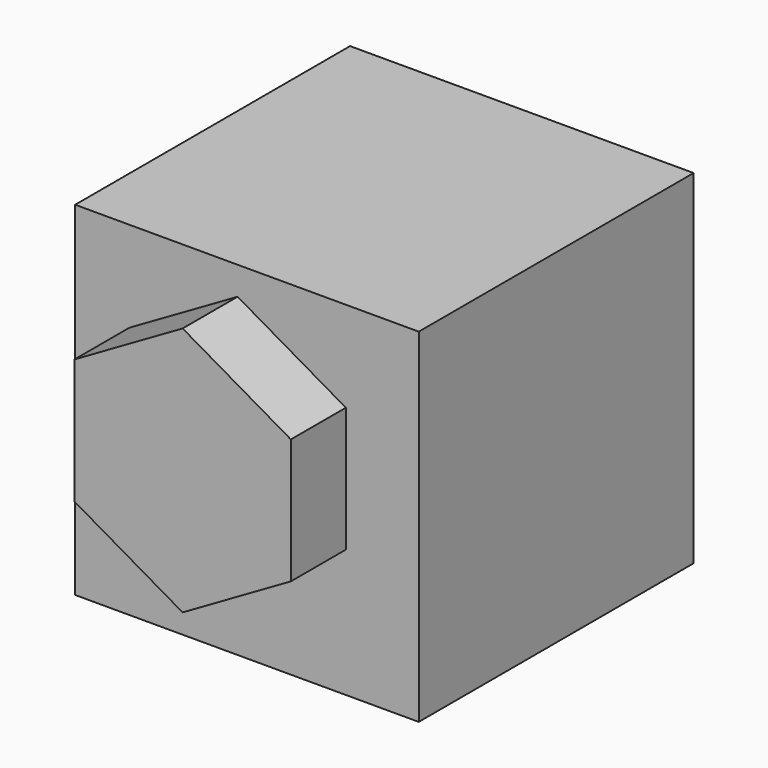
from build123d import *

# Parameters (mm, degrees)
F0_W     = 127
F0_H     = 127
F1_DEPTH = 127
F3_DEPTH = 25.4


with BuildPart() as f1:
    # F0 (on Front) → F1 (new body)
    with BuildSketch(Plane.XZ):
        with Locations((63.5, 63.5)):
            Rectangle(F0_W, F0_H)
    extrude(amount=F1_DEPTH)

    # F2 (on face) → F3 (join)
    with BuildSketch(Plane.XZ.offset(127)):
        Polygon((60.038867, 24.192312), (100.048757, 47.292033), (100.048757, 93.491474), (60.038867, 116.591195), (20.028977, 93.491474), (20.028977, 47.292033), align=None)
    extrude(amount=F3_DEPTH)


solid = f1.part
